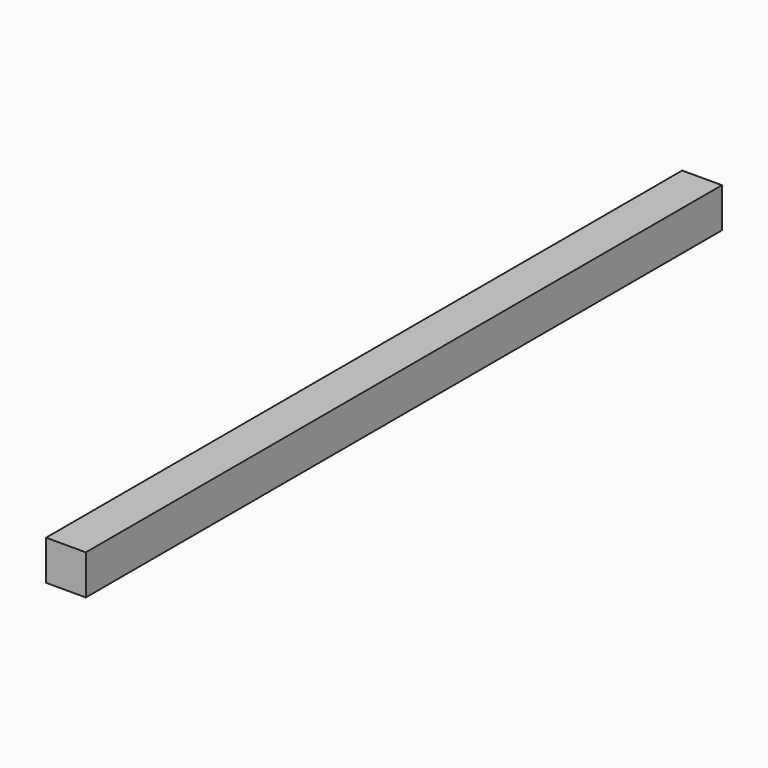
from build123d import *

# Parameters (mm, degrees)
F0_W     = 11.0257812783
F0_H     = 5.4881653445
F1_DEPTH = 508


with BuildPart() as f1:
    # F0 (on Front) → F1 (new body)
    with BuildSketch(Plane.XZ):
        Polygon((-18.2128906391, -9.0880743527), (7.1871093609, -9.0880743527), (0, 0.8678429751), (-11.0257812783, 0.8678429751), align=None)
        Polygon((0, 6.3560083196), (7.1871093609, 16.3119256473), (-18.2128906391, 16.3119256473), (-11.0257812783, 6.3560083196), align=None)
        Polygon((0, 0.8678429751), (7.1871093609, -9.0880743527), (7.1871093609, 16.3119256473), (0, 6.3560083196), align=None)
        Polygon((-18.2128906391, 16.3119256473), (-18.2128906391, -9.0880743527), (-11.0257812783, 0.8678429751), (-11.0257812783, 6.3560083196), align=None)
        with Locations((-5.5128906391, 3.6119256473)):
            Rectangle(F0_W, F0_H)
    extrude(amount=F1_DEPTH)


solid = f1.part
